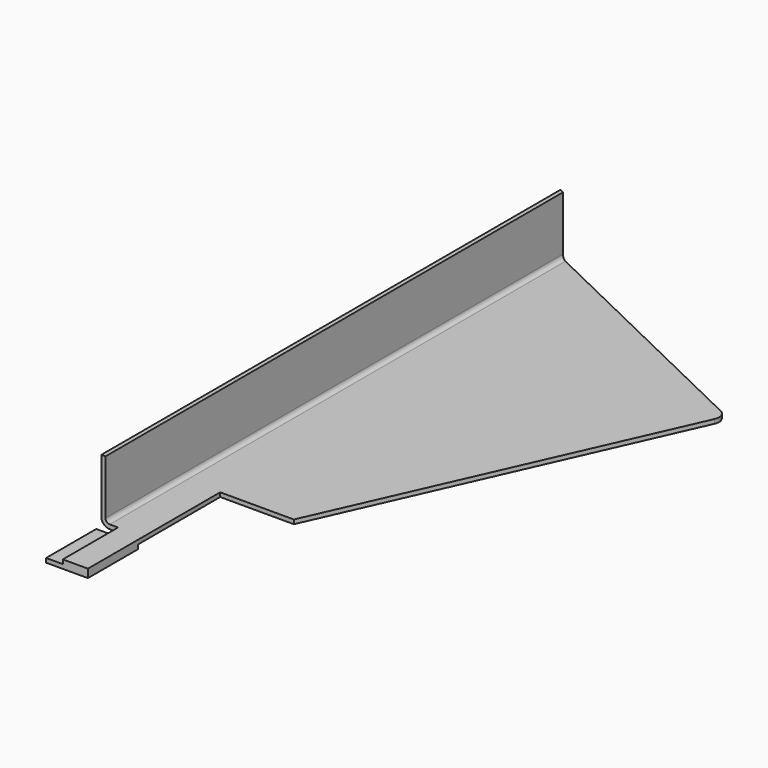
from build123d import *

# Parameters (mm, degrees)
F1_DEPTH = 400
F2_W     = 221.745663
F2_H     = 423.016819
F3_DEPTH = 50
F4_R     = 1.45
F5_DEPTH = 25
F6_W     = 8
F6_H     = 30
F6_W_2   = 12
F6_R     = 1.45
F7_DEPTH = 2


with BuildPart() as f1:
    # F0 (on Front) → F1 (new body)
    with BuildSketch(Plane.XZ):
        with BuildLine():
            Line((-22.5, 2), (-22.5, 28))
            Line((-22.5, 28), (-24.5, 28))
            Line((-24.5, 28), (-24.5, 2))
            ThreePointArc((-24.5, 2), (-23.328427, -0.828427), (-20.5, -2))
            Line((-20.5, -2), (125.5, -2))
            Line((125.5, -2), (125.5, 0))
            Line((125.5, 0), (-20.5, 0))
            ThreePointArc((-20.5, 0), (-21.914214, 0.585786), (-22.5, 2))
        make_face()
    extrude(amount=-F1_DEPTH)

    # F2 (on Top) → F3 (cut, symmetric)
    with BuildSketch(Plane.XY):
        with Locations((54.499505, 198.406644)):
            Rectangle(F2_W, F2_H)
        with BuildLine():
            Line((-24.5, 33), (-24.5, 307.38047))
            Line((-24.5, 307.38047), (100.260685, 247.214851))
            ThreePointArc((100.260685, 247.214851), (102.783459, 244.43172), (102.656531, 240.67751))
            Line((102.656531, 240.67751), (30.705116, 79.071984))
            Line((30.705116, 79.071984), (-4.5, 79.071984))
            Line((-4.5, 79.071984), (-4.5, 0))
            Line((-4.5, 0), (-16.5, 0))
            Line((-16.5, 0), (-16.5, 33))
            Line((-16.5, 33), (-24.5, 33))
        make_face(mode=Mode.SUBTRACT)
    extrude(amount=F3_DEPTH, both=True, mode=Mode.SUBTRACT)

    # F4 (on face) → F5 (cut)
    with BuildSketch(Plane(origin=(0, 0, -2), x_dir=(1, 0, 0), z_dir=(0, 0, -1))):
        with Locations((-18.5, -7)):
            Circle(F4_R)
        with Locations((-18.5, -23)):
            Circle(F4_R)
    extrude(amount=-F5_DEPTH, mode=Mode.SUBTRACT)

    # F6 (on face) → F7 (join)
    with BuildSketch(Plane(origin=(0, 0, -2), x_dir=(1, 0, 0), z_dir=(0, 0, -1))):
        with Locations((-20.5, -15)):
            Rectangle(F6_W, F6_H)
        with Locations((-10.5, -15)):
            Rectangle(F6_W_2, F6_H)
        with Locations((-10.5, -23)):
            Circle(F6_R, mode=Mode.SUBTRACT)
        with Locations((-10.5, -7)):
            Circle(F6_R, mode=Mode.SUBTRACT)
        with Locations((-10.5, -15)):
            Rectangle(F6_W_2, F6_H)
        with Locations((-10.5, -23)):
            Circle(F6_R, mode=Mode.SUBTRACT)
        with Locations((-10.5, -7)):
            Circle(F6_R, mode=Mode.SUBTRACT)
    extrude(amount=F7_DEPTH)


solid = f1.part
